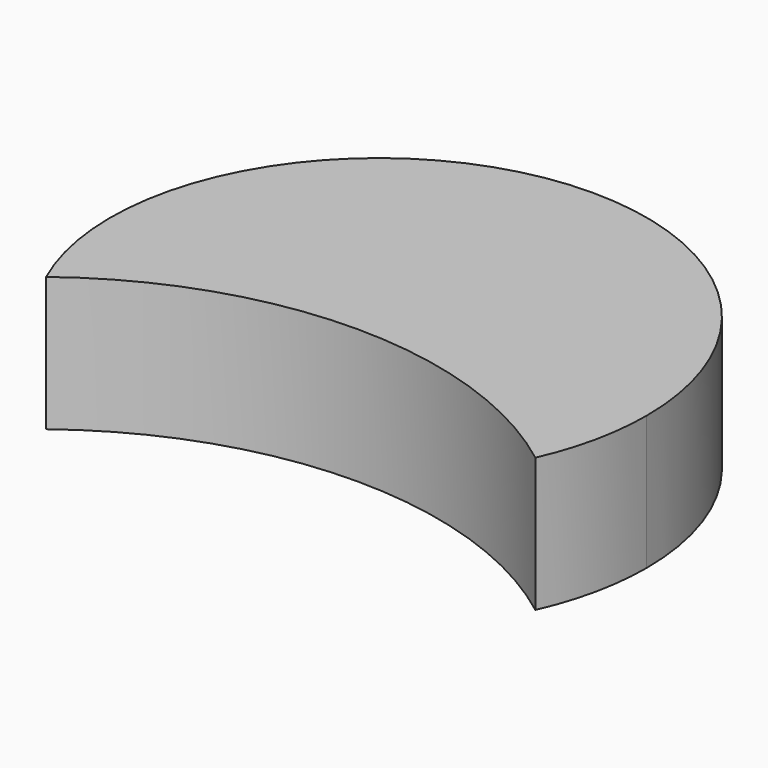
from build123d import *

# Parameters (mm, degrees)
F1_DEPTH = 6.35


with BuildPart() as f1:
    # F0 (on Top) → F1 (new body)
    with BuildSketch(Plane.XY):
        with BuildLine():
            ThreePointArc((11.5870509242, -5.1990625), (12.4186461971, -2.6584255925), (12.7, 0))
            ThreePointArc((12.7, 0), (-2.6584255925, 12.4186461971), (-11.5870509242, -5.1990625))
            ThreePointArc((-11.5870509242, -5.1990625), (0, -1.27), (11.5870509242, -5.1990625))
        make_face()
    extrude(amount=F1_DEPTH)


solid = f1.part
